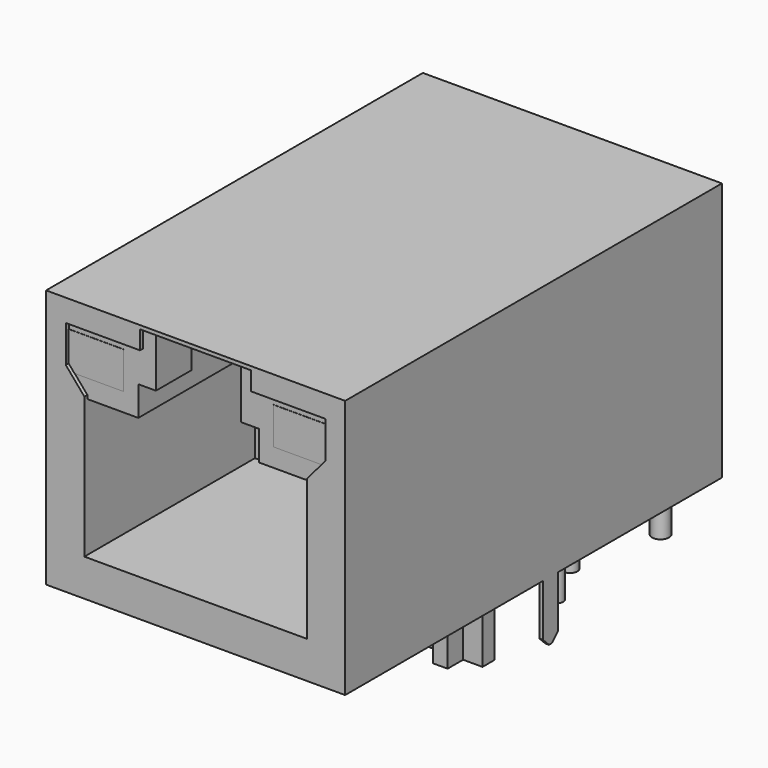
from build123d import *

# Parameters (mm, degrees)
SKETCH012_R       = 0.395
SKETCH012_R_2     = 0.46
PAD005_DEPTH      = 4
PAD005_DEPTH_BACK = 3.18
SKETCH011_W       = 3
SKETCH011_H       = 2
PAD004_DEPTH      = 4
SKETCH010_W       = 3
SKETCH010_H       = 2
PAD003_DEPTH      = 4
SKETCH_W          = 15.73
SKETCH_H          = 25
PAD_DEPTH         = 13.77
PAD001_DEPTH      = 3.18
POCKET_DEPTH      = 11.3
SKETCH004_W       = 4.6
SKETCH004_H       = 3
POCKET002_DEPTH   = 5.4
SKETCH003_W       = 6.5
SKETCH003_H       = 3
POCKET003_DEPTH   = 11.77
SKETCH005_W       = 11
SKETCH005_H       = 12
POCKET004_DEPTH   = 15.731
SKETCH009_W       = 3
SKETCH009_H       = 2
POCKET007_DEPTH   = 5
SKETCH006_W       = 16.13
SKETCH006_H       = 25.4
PAD002_DEPTH      = 13.97
SKETCH007_W       = 15.73
SKETCH007_H       = 25
POCKET005_DEPTH   = 13.7
POCKET006_DEPTH   = 0.2
SKETCH013_W       = 0.2
SKETCH013_H       = 1
PAD006_DEPTH      = 3.2
CHAMFER_SIZE      = 0.4


with BuildPart() as pins_pad:
    # Sketch012 → Pad005 (new body, two sides)
    with BuildSketch(Plane.XY) as pad005_sk:
        with Locations((-4.445, 11.43)):
            Circle(SKETCH012_R)
        with Locations((-4.445, 6.35)):
            Circle(SKETCH012_R)
        with Locations((-5.715, 8.89)):
            Circle(SKETCH012_R)
        with Locations((-3.175, 8.89)):
            Circle(SKETCH012_R)
        with Locations((3.175, 6.35)):
            Circle(SKETCH012_R)
        with Locations((5.715, 6.35)):
            Circle(SKETCH012_R)
        with Locations((0.635, 6.35)):
            Circle(SKETCH012_R)
        with Locations((1.905, 8.89)):
            Circle(SKETCH012_R)
        with Locations((4.445, 8.89)):
            Circle(SKETCH012_R)
        with Locations((2.925, 13.72)):
            Circle(SKETCH012_R_2)
        with Locations((5.465, 13.72)):
            Circle(SKETCH012_R_2)
        with Locations((-5.465, 13.72)):
            Circle(SKETCH012_R_2)
        with Locations((-2.925, 13.72)):
            Circle(SKETCH012_R_2)
    extrude(amount=PAD005_DEPTH)
    extrude(pad005_sk.sketch, amount=-PAD005_DEPTH_BACK)


with BuildPart() as led_left_green_pad:
    # Sketch011 → Pad004 (new body)
    with BuildSketch(Plane.XZ.offset(10.6)):
        with Locations((-5.55, 11.4)):
            Rectangle(SKETCH011_W, SKETCH011_H)
    extrude(amount=-PAD004_DEPTH)


with BuildPart() as led_right_yellow_pad:
    # Sketch010 → Pad003 (new body)
    with BuildSketch(Plane.XZ.offset(10.6)):
        with Locations((5.55, 11.4)):
            Rectangle(SKETCH010_W, SKETCH010_H)
    extrude(amount=-PAD003_DEPTH)


with BuildPart() as led_left_mirrored:
    # Sketch → Pad (new body)
    with BuildSketch(Plane.XY):
        with Locations((0, 1.91)):
            Rectangle(SKETCH_W, SKETCH_H)
    extrude(amount=PAD_DEPTH)

    # Sketch001 → Pad001 (new body)
    with BuildSketch(Plane(origin=(0, 0, 0), x_dir=(1, 0, 0), z_dir=(0, 0, -1))):
        Polygon((5.315, 1.445683), (5.315, 0.4), (4.269317, 0.4), (4.269317, -0.4), (5.315, -0.4), (5.315, -1.445683), (6.115, -1.445683), (6.115, -0.4), (7.160683, -0.4), (7.160683, 0.4), (6.115, 0.4), (6.115, 1.445683), align=None)
    pad001 = extrude(amount=PAD001_DEPTH)

    # Mirrored: Pad001 across Sketch001 V_Axis
    add(pad001.mirror(Plane(origin=(0, 0, 0), x_dir=(0, 0, -1), z_dir=(1, 0, 0))))

    # Sketch002 → Pocket (cut)
    with BuildSketch(Plane.XZ.offset(10.59)):
        Polygon((-6, 2), (6, 2), (6, 9.4), (3.25, 9.4), (3.25, 11), (2.15, 11), (-2.15, 11), (-3.25, 11), (-3.25, 9.4), (-6, 9.4), align=None)
    extrude(amount=-POCKET_DEPTH, mode=Mode.SUBTRACT)

    # Sketch004 → Pocket002 (cut)
    with BuildSketch(Plane.XZ.offset(10.59)):
        with Locations((0, 12.5)):
            Rectangle(SKETCH004_W, SKETCH004_H)
    extrude(amount=-POCKET002_DEPTH, mode=Mode.SUBTRACT)

    # Sketch003 → Pocket003 (cut)
    with BuildSketch(Plane.XY.offset(13.77)):
        with Locations((0, -6.69)):
            Rectangle(SKETCH003_W, SKETCH003_H)
    extrude(amount=-POCKET003_DEPTH, mode=Mode.SUBTRACT)

    # Sketch005 → Pocket004 (cut, through all)
    with BuildSketch(Plane.YZ.offset(7.865)):
        with Locations((9.5, 9)):
            Rectangle(SKETCH005_W, SKETCH005_H)
    extrude(amount=-POCKET004_DEPTH, mode=Mode.SUBTRACT)

    # Sketch009 → Pocket007 (cut)
    with BuildSketch(Plane.XZ.offset(10.59)):
        with Locations((5.55, 11.4)):
            Rectangle(SKETCH009_W, SKETCH009_H)
    pocket007 = extrude(amount=-POCKET007_DEPTH, mode=Mode.SUBTRACT)

    # Mirrored001: Pocket007 across Sketch009 V_Axis
    add(pocket007.mirror(Plane(origin=(0, -10.59, 0), x_dir=(0, -1, 0), z_dir=(1, 0, 0))), mode=Mode.SUBTRACT)


with BuildPart() as obj1:
    # Sketch006 → Pad002 (new body)
    with BuildSketch(Plane.XY):
        with Locations((0, 1.91)):
            Rectangle(SKETCH006_W, SKETCH006_H)
    extrude(amount=PAD002_DEPTH)

    # Sketch007 → Pocket005 (cut)
    with BuildSketch(Plane(origin=(0, 0, 0), x_dir=(1, 0, 0), z_dir=(0, 0, -1))):
        with Locations((0, -1.91)):
            Rectangle(SKETCH007_W, SKETCH007_H)
    extrude(amount=-POCKET005_DEPTH, mode=Mode.SUBTRACT)

    # Sketch008 → Pocket006 (cut)
    with BuildSketch(Plane.XZ.offset(10.79)):
        Polygon((-6, 2), (6, 2), (6, 9.6), (7, 10.77), (7, 12.77), (3, 12.77), (3, 13.77), (-3, 13.77), (-3, 12.77), (-7, 12.77), (-7, 10.77), (-6, 9.6), align=None)
    extrude(amount=-POCKET006_DEPTH, mode=Mode.SUBTRACT)

    # Sketch013 → Pad006 (new body)
    with BuildSketch(Plane(origin=(0, 0, 0), x_dir=(1, 0, 0), z_dir=(0, 0, -1))):
        with Locations((7.965, -3.05)):
            Rectangle(SKETCH013_W, SKETCH013_H)
    pad006 = extrude(amount=PAD006_DEPTH)

    # Mirrored002: Pad006 across Sketch013 V_Axis
    add(pad006.mirror(Plane(origin=(0, 0, 0), x_dir=(0, 0, -1), z_dir=(1, 0, 0))))

    # Chamfer
    chamfer_edges = [obj1.edges().sort_by_distance(p)[0] for p in [
        (7.965, 3.55, -3.2),
        (7.965, 2.55, -3.2),
        (-7.965, 2.55, -3.2),
        (-7.965, 3.55, -3.2),
    ]]
    chamfer(chamfer_edges, length=CHAMFER_SIZE)

    # Fusion: union Pins_Pad, LED_Left_Green_Pad, LED_Right_Yellow_Pad, LED_Left_Mirrored
    add(pins_pad.part)
    add(led_left_green_pad.part)
    add(led_right_yellow_pad.part)
    add(led_left_mirrored.part)


solid = obj1.part
